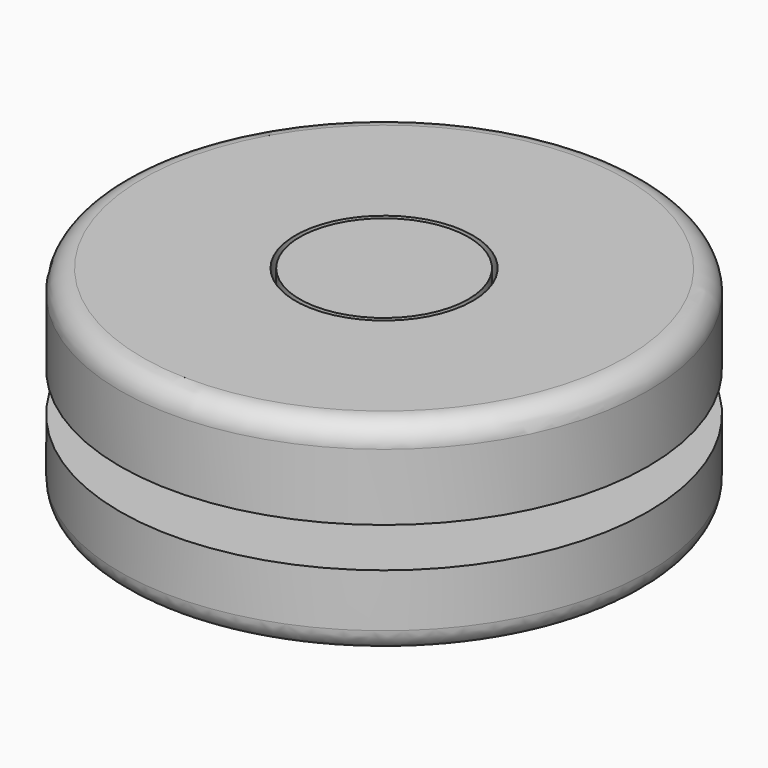
from build123d import *

# Parameters (mm, degrees)
F0_R     = 3.95
F1_DEPTH = 0.9
F2_R     = 5.95
F2_R_2   = 3.95
F3_DEPTH = 2
F4_R     = 2
F5_DEPTH = 2.9
F8_R     = 1.9
F9_DEPTH = 2.9
F10_R    = 0.5
F10_2_R  = 0.5


with BuildPart() as f1:
    # F0 (on Top) → F1 (new body)
    with BuildSketch(Plane.XY):
        Circle(F0_R)
    extrude(amount=F1_DEPTH)

    # F2 (on face) → F3 (join)
    with BuildSketch(Plane.XY.offset(0.9)):
        Circle(F2_R)
        Circle(F2_R_2, mode=Mode.SUBTRACT)
        Circle(F2_R_2)
    extrude(amount=F3_DEPTH)

    # F4 (on face) → F5 (cut, through all)
    with BuildSketch(Plane(origin=(0, 0, 0), x_dir=(1, 0, 0), z_dir=(0, 0, -1))):
        Circle(F4_R)
    extrude(amount=-F5_DEPTH, mode=Mode.SUBTRACT)

    # F10
    f10_edges = [f1.edges().sort_by_distance(p)[0] for p in [
        (-5.95, 0, 2.9),
    ]]
    fillet(f10_edges, radius=F10_R)


with BuildPart() as f7:
    # F6 (on Front) → F7 (revolve)
    with BuildSketch(Plane.XZ):
        with BuildLine():
            Line((0, -2), (0, 0))
            Line((0, 0), (-5.95, 0))
            Line((-5.95, 0), (-5.95, -1.644713))
            ThreePointArc((-5.95, -1.644713), (-2.980299, -1.911099), (0, -2))
        make_face()
    revolve(axis=Axis((0, 0, -1), (0, 0, -1)))

    # F8 (on face) → F9 (join, through all)
    with BuildSketch(Plane.XY):
        Circle(F8_R)
    extrude(amount=F9_DEPTH)

    # F10#2
    f10_2_edges = [f7.edges().sort_by_distance(p)[0] for p in [
        (5.95, 0, -1.644713),
    ]]
    fillet(f10_2_edges, radius=F10_2_R)


solid = Compound([f1.part, f7.part])
